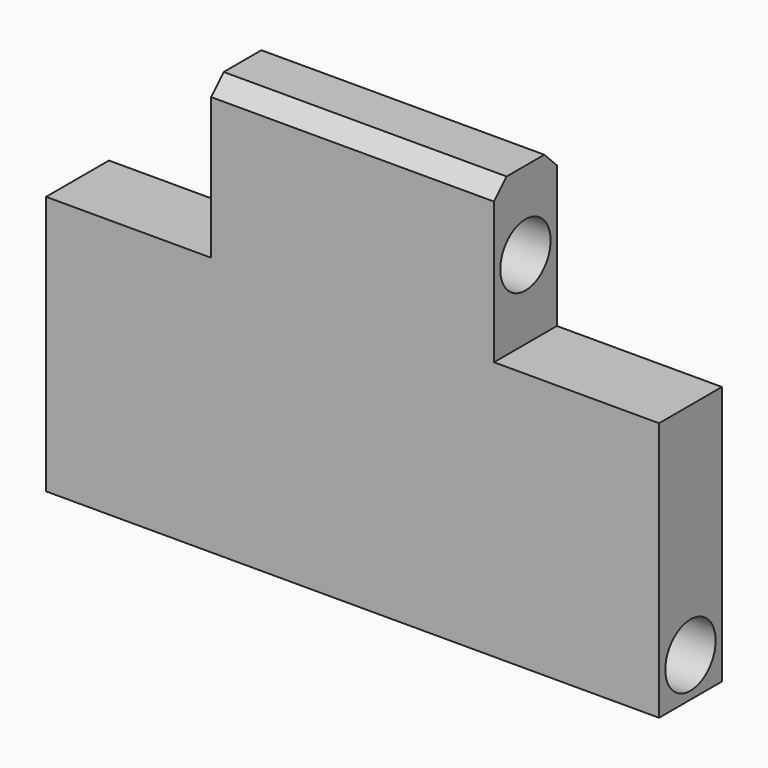
from build123d import *

# Parameters (mm, degrees)
F1_DEPTH  = 10
F2_R      = 4
F3_DEPTH  = 38
F4_R      = 4
F5_DEPTH  = 70
F8_DEPTH  = 10
F9_R      = 4
F10_DEPTH = 40
F11_R     = 4
F12_DEPTH = 100
F13_DEPTH = 5
F14_SIZE  = 2


with BuildPart() as f1:
    # F0 (on Front) → F1 (new body)
    with BuildSketch(Plane.XZ):
        Polygon((19, 24), (-19, 24), (-19, 9), (-35, 9), (-35, -24), (35, -24), (35, 9), (19, 9), align=None)
    extrude(amount=F1_DEPTH)

    # F2 (on face) → F3 (cut)
    with BuildSketch(Plane.YZ.offset(19)):
        with Locations((-5, 19)):
            Circle(F2_R)
    extrude(amount=-F3_DEPTH, mode=Mode.SUBTRACT)

    # F4 (on face) → F5 (cut)
    with BuildSketch(Plane.YZ.offset(35)):
        with Locations((-5, -19)):
            Circle(F4_R)
    extrude(amount=-F5_DEPTH, mode=Mode.SUBTRACT)


with BuildPart() as f8:
    # F7 (on Front) → F8 (new body)
    with BuildSketch(Plane.XZ):
        Polygon((18, 24), (-18, 24), (-18, 9), (-39, 9), (-39, -24), (39, -24), (39, 9), (18, 9), align=None)
        Polygon((18, 24), (-18, 24), (-18, 9), (-39, 9), (-39, -24), (39, -24), (39, 9), (18, 9), align=None)
    extrude(amount=F8_DEPTH)

    # F9 (on face) → F10 (cut)
    with BuildSketch(Plane.YZ.offset(18)):
        with Locations((-5, 19)):
            Circle(F9_R)
    extrude(amount=-F10_DEPTH, mode=Mode.SUBTRACT)

    # F11 (on face) → F12 (cut)
    with BuildSketch(Plane.YZ.offset(39)):
        with Locations((-5, -19)):
            Circle(F11_R)
    extrude(amount=-F12_DEPTH, mode=Mode.SUBTRACT)

    # F13 (add): a face of the model
    f13_faces = [f8.faces().sort_by_distance(p)[0] for p in [
        (0, -5, 24),
    ]]
    extrude(f13_faces, amount=F13_DEPTH)

    # F14
    f14_edges = [f8.edges().sort_by_distance(p)[0] for p in [
        (0, -10, 29),
        (0, 0, 29),
    ]]
    chamfer(f14_edges, length=F14_SIZE)


solid = f8.part
